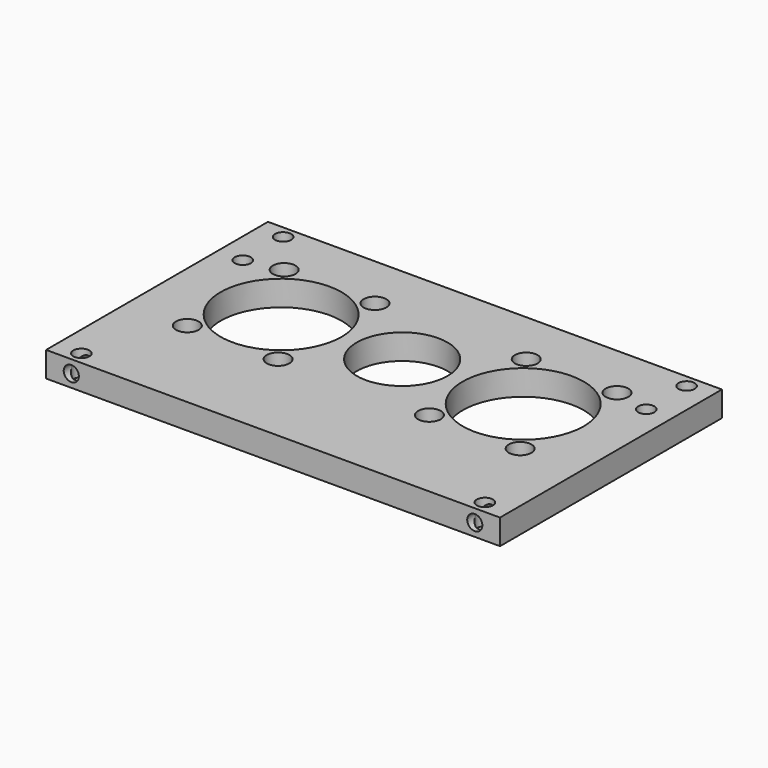
from build123d import *

# Parameters (mm, degrees)
SKETCH_W        = 90
SKETCH_H        = 55
PAD_DEPTH       = 5
SKETCH001_R     = 9
SKETCH001_R_2   = 12
SKETCH001_R_3   = 2.25
POCKET_DEPTH    = 5
SKETCH002_R     = 1.6
POCKET001_DEPTH = 5
SKETCH003_R     = 1.5
POCKET002_DEPTH = 20


with BuildPart() as part:
    # Sketch → Pad (new body)
    with BuildSketch(Plane.XY):
        with Locations((45, 27.5)):
            Rectangle(SKETCH_W, SKETCH_H)
    extrude(amount=PAD_DEPTH)

    # Sketch001 (on Face6 of Pad) → Pocket (cut)
    with BuildSketch(Plane.XY.offset(5)):
        with Locations((45, 32)):
            Circle(SKETCH001_R)
        with Locations((21, 32)):
            Circle(SKETCH001_R_2)
        with Locations((69, 32)):
            Circle(SKETCH001_R_2)
        with Locations((12, 44)):
            Circle(SKETCH001_R_3)
        with Locations((30, 44)):
            Circle(SKETCH001_R_3)
        with Locations((30, 20)):
            Circle(SKETCH001_R_3)
        with Locations((12, 20)):
            Circle(SKETCH001_R_3)
        with Locations((60, 44)):
            Circle(SKETCH001_R_3)
        with Locations((78, 44)):
            Circle(SKETCH001_R_3)
        with Locations((78, 20)):
            Circle(SKETCH001_R_3)
        with Locations((60, 20)):
            Circle(SKETCH001_R_3)
    extrude(amount=-POCKET_DEPTH, mode=Mode.SUBTRACT)

    # Sketch002 (on Face5 of Pocket) → Pocket001 (cut)
    with BuildSketch(Plane.XY.offset(5)):
        with Locations((5, 52.5)):
            Circle(SKETCH002_R)
        with Locations((5, 2.5)):
            Circle(SKETCH002_R)
        with Locations((85, 2.5)):
            Circle(SKETCH002_R)
        with Locations((85, 52.5)):
            Circle(SKETCH002_R)
        with Locations((5, 42.5)):
            Circle(SKETCH002_R)
        with Locations((85, 42.5)):
            Circle(SKETCH002_R)
    extrude(amount=-POCKET001_DEPTH, mode=Mode.SUBTRACT)

    # Sketch003 (on Face1 of Pocket001) → Pocket002 (cut)
    with BuildSketch(Plane.XZ):
        with Locations((85, 2.5)):
            Circle(SKETCH003_R)
        with Locations((5, 2.5)):
            Circle(SKETCH003_R)
    extrude(amount=-POCKET002_DEPTH, mode=Mode.SUBTRACT)


solid = part.part
